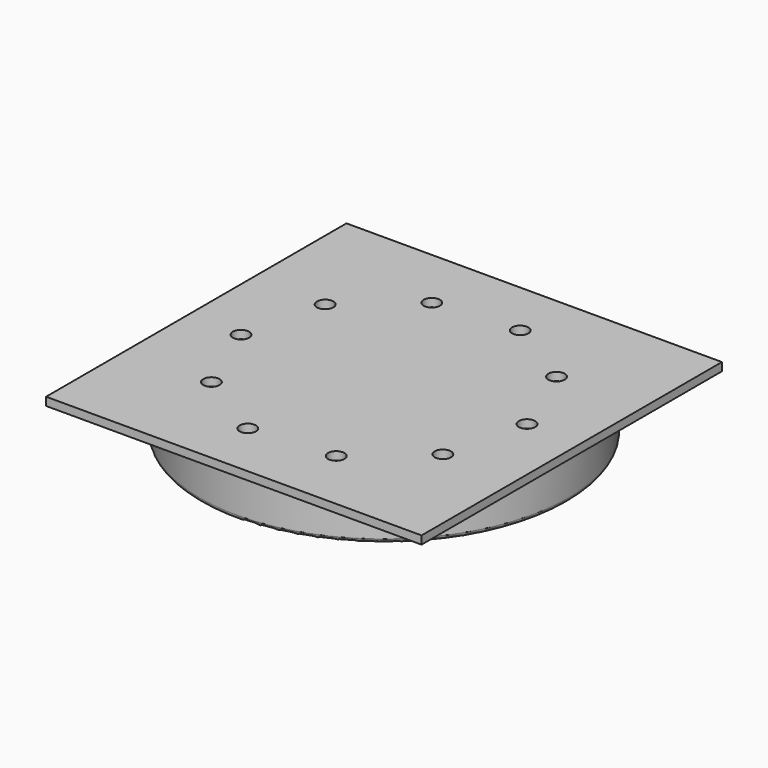
from build123d import *

# Parameters (mm, degrees)
F0_R     = 45
F1_DEPTH = 10
F2_T     = -2.5
F3_W     = 92
F3_H     = 92
F4_DEPTH = 2
F5_R     = 2
F6_DEPTH = 6
F7_R     = 1


with BuildPart() as f1:
    # F0 (on Top) → F1 (new body)
    with BuildSketch(Plane.XY):
        Circle(F0_R)
        Circle(F0_R)
    extrude(amount=-F1_DEPTH)

    # F2
    f2_openings = [f1.faces().sort_by_distance(p)[0] for p in [
        (0, 0, 0),
        (0, 0, -10),
    ]]
    offset(amount=F2_T, openings=f2_openings)

    # F3 (on face) → F4 (join)
    with BuildSketch(Plane.XY):
        Rectangle(F3_W, F3_H)
    extrude(amount=F4_DEPTH)

    # F5 (on face) → F6 (cut)
    with BuildSketch(Plane(origin=(0, 0, 0), x_dir=(1, 0, 0), z_dir=(0, 0, -1))):
        with Locations((-7.6630815103, 32.1338913288)):
            Circle(F5_R)
        with Locations((12.6882642508, 30.5011104792)):
            Circle(F5_R)
        with Locations((28.1931243262, 17.2179421212)):
            Circle(F5_R)
        with Locations((32.9291691581, -2.6418949108)):
            Circle(F5_R)
        with Locations((25.0873905929, -21.4926178815)):
            Circle(F5_R)
        with Locations((-25.0873905929, 21.4926178815)):
            Circle(F5_R)
        with Locations((-32.9291691581, 2.6418949108)):
            Circle(F5_R)
        with Locations((-28.1931243262, -17.2179421212)):
            Circle(F5_R)
        with Locations((-12.6882642508, -30.5011104792)):
            Circle(F5_R)
        with Locations((7.6630815103, -32.1338913288)):
            Circle(F5_R)
    extrude(amount=-F6_DEPTH, mode=Mode.SUBTRACT)

    # F7
    f7_edges = [f1.edges().sort_by_distance(p)[0] for p in [
        (-45, 0, -10),
        (-42.5, 0, -10),
    ]]
    fillet(f7_edges, radius=F7_R)


solid = f1.part
